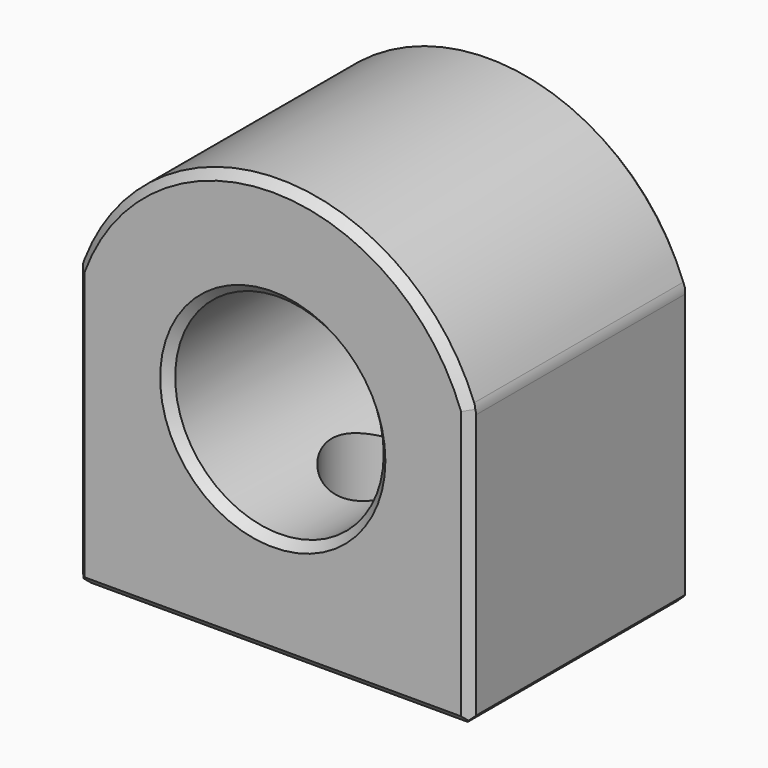
from build123d import *

# Parameters (mm, degrees)
F0_R     = 19.05
F1_DEPTH = 50.8
F2_R     = 9.525
F3_DEPTH = 25.4
F4_SIZE  = 1.524
F5_SIZE  = 1.524
F6_SIZE  = 1.524
F7_R     = 5.08
F8_R     = 5.08


with BuildPart() as f1:
    # F0 (on Front) → F1 (new body)
    with BuildSketch(Plane.XZ):
        with BuildLine():
            Line((35.921024, -38.1), (35.921024, 12.7))
            ThreePointArc((35.921024, 12.7), (0, 38.034383), (-35.921024, 12.7))
            Line((-35.921024, 12.7), (-35.921024, -38.1))
            Line((-35.921024, -38.1), (35.921024, -38.1))
        make_face()
        Circle(F0_R, mode=Mode.SUBTRACT)
    extrude(amount=F1_DEPTH)

    # F2 (on face) → F3 (cut)
    with BuildSketch(Plane(origin=(0, 0, -38.1), x_dir=(1, 0, 0), z_dir=(0, 0, -1))):
        with Locations((0, 25.4)):
            Circle(F2_R)
    extrude(amount=-F3_DEPTH, mode=Mode.SUBTRACT)

    # F4
    f4_edges = [f1.edges().sort_by_distance(p)[0] for p in [
        (0, -50.8, 38.034383),
        (-35.921024, -50.8, -12.7),
        (0, -50.8, -38.1),
        (35.921024, -50.8, -12.7),
        (-19.05, -50.8, 0),
    ]]
    chamfer(f4_edges, length=F4_SIZE)

    # F5
    f5_edges = [f1.edges().sort_by_distance(p)[0] for p in [
        (0, 0, 38.034383),
        (35.921024, 0, -12.7),
        (0, 0, -38.1),
        (-35.921024, 0, -12.7),
        (-19.05, 0, 0),
    ]]
    chamfer(f5_edges, length=F5_SIZE)

    # F6
    f6_edges = [f1.edges().sort_by_distance(p)[0] for p in [
        (35.921024, -25.4, -38.1),
        (-35.921024, -25.4, -38.1),
        (-9.525, -25.4, -38.1),
    ]]
    chamfer(f6_edges, length=F6_SIZE)

    # F7
    f7_edges = [f1.edges().sort_by_distance(p)[0] for p in [
        (-35.921024, -25.4, 12.7),
    ]]
    fillet(f7_edges, radius=F7_R)

    # F8
    f8_edges = [f1.edges().sort_by_distance(p)[0] for p in [
        (35.921024, -25.4, 12.7),
    ]]
    fillet(f8_edges, radius=F8_R)


solid = f1.part
